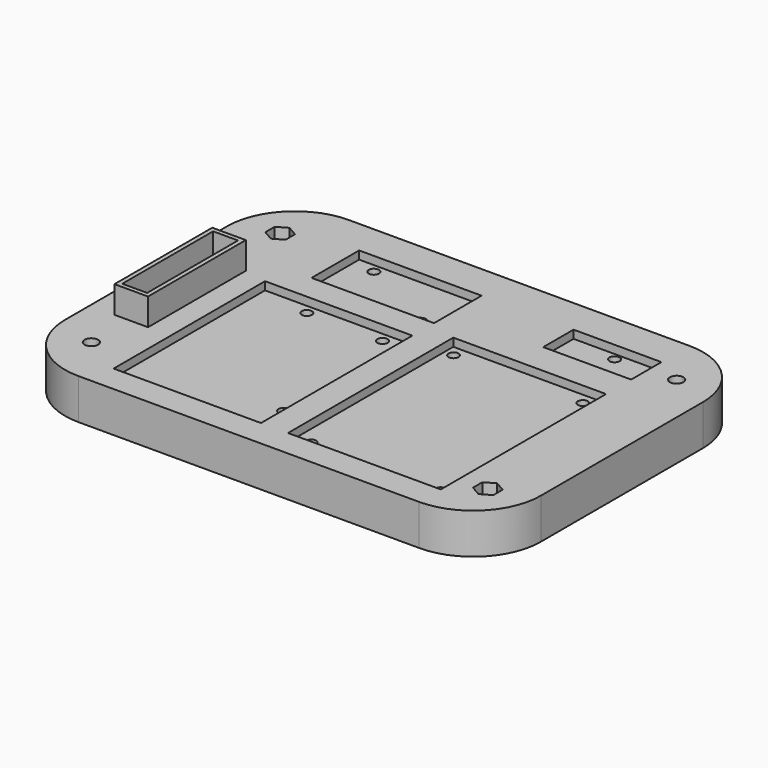
from build123d import *

# Parameters (mm, degrees)
SKETCH_W        = 250
SKETCH_H        = 250
PAD_DEPTH       = 15
SKETCH001_W     = 54.5
SKETCH001_H     = 70
SKETCH001_W_2   = 56.5
SKETCH001_H_2   = 76.4
SKETCH001_W_3   = 45.3
SKETCH001_H_3   = 22
SKETCH001_W_4   = 32.5
SKETCH001_H_4   = 14
POCKET_DEPTH    = 3
SKETCH002_R     = 1.85
POCKET001_DEPTH = 12.001
SKETCH003_R     = 1.9
POCKET002_DEPTH = 12.001
SKETCH004_R     = 1.9
POCKET003_DEPTH = 12.001
SKETCH005_R     = 1.9
POCKET004_DEPTH = 12.001
SKETCH006_W     = 9.2
SKETCH006_H     = 42
POCKET005_DEPTH = 13
SKETCH007_W     = 12.4
SKETCH007_H     = 45.2
SKETCH007_W_2   = 9.2
SKETCH007_H_2   = 42
PAD001_DEPTH    = 10
SKETCH008_W     = 300
SKETCH008_H     = 300
SKETCH008_W_2   = 176
SKETCH008_H_2   = 125
POCKET006_DEPTH = 15.001
FILLET_R        = 25
SKETCH009_R     = 2.5
POCKET007_DEPTH = 15.001
POCKET008_DEPTH = 9
POCKET009_DEPTH = 10
POCKET010_DEPTH = 9


with BuildPart() as part:
    # Sketch → Pad (new body)
    with BuildSketch(Plane.XY):
        Rectangle(SKETCH_W, SKETCH_H)
    extrude(amount=PAD_DEPTH)

    # Sketch001 (on Face6 of Pad) → Pocket (cut)
    with BuildSketch(Plane.XY.offset(15)):
        with Locations((-32.25, -80)):
            Rectangle(SKETCH001_W, SKETCH001_H)
        with Locations((33.25, -76.8)):
            Rectangle(SKETCH001_W_2, SKETCH001_H_2)
        with Locations((-27.65, -24)):
            Rectangle(SKETCH001_W_3, SKETCH001_H_3)
        with Locations((45.25, -20)):
            Rectangle(SKETCH001_W_4, SKETCH001_H_4)
    extrude(amount=-POCKET_DEPTH, mode=Mode.SUBTRACT)

    # Sketch002 (on Face24 of Pocket) → Pocket001 (cut, through all)
    with BuildSketch(Plane.XY.offset(12)):
        with Locations((8.375192, -42.688926)):
            Circle(SKETCH002_R)
        with Locations((56.175192, -42.688926)):
            Circle(SKETCH002_R)
        with Locations((58.124808, -110.911074)):
            Circle(SKETCH002_R)
        with Locations((10.324808, -110.911074)):
            Circle(SKETCH002_R)
    extrude(amount=-POCKET001_DEPTH, mode=Mode.SUBTRACT)

    # Sketch003 (on Face28 of Pocket001) → Pocket002 (cut, through all)
    with BuildSketch(Plane.XY.offset(12)):
        with Locations((-41.25, -48.5)):
            Circle(SKETCH003_R)
        with Locations((-13.25, -48.5)):
            Circle(SKETCH003_R)
        with Locations((-8.25, -100.5)):
            Circle(SKETCH003_R)
    extrude(amount=-POCKET002_DEPTH, mode=Mode.SUBTRACT)

    # Sketch004 (on Face32 of Pocket002) → Pocket003 (cut, through all)
    with BuildSketch(Plane.XY.offset(12)):
        with Locations((-42.248485, -16.25)):
            Circle(SKETCH004_R)
        with Locations((-12.55, -31.75)):
            Circle(SKETCH004_R)
    extrude(amount=-POCKET003_DEPTH, mode=Mode.SUBTRACT)

    # Sketch005 (on Face35 of Pocket003) → Pocket004 (cut, through all)
    with BuildSketch(Plane.XY.offset(12)):
        with Locations((46.25, -15.586892)):
            Circle(SKETCH005_R)
        with Locations((46.25, -24.413108)):
            Circle(SKETCH005_R)
    extrude(amount=-POCKET004_DEPTH, mode=Mode.SUBTRACT)

    # Sketch006 (on Face5 of Pocket004) → Pocket005 (cut)
    with BuildSketch(Plane.XY.offset(15)):
        with Locations((-74.1, -66)):
            Rectangle(SKETCH006_W, SKETCH006_H)
    extrude(amount=-POCKET005_DEPTH, mode=Mode.SUBTRACT)

    # Sketch007 (on Face5 of Pocket005) → Pad001 (join)
    with BuildSketch(Plane.XY.offset(15)):
        with Locations((-74.1, -66)):
            Rectangle(SKETCH007_W, SKETCH007_H)
        with Locations((-74.1, -66)):
            Rectangle(SKETCH007_W_2, SKETCH007_H_2, mode=Mode.SUBTRACT)
    extrude(amount=PAD001_DEPTH)

    # Sketch008 (on Face5 of Pad001) → Pocket006 (cut, through all)
    with BuildSketch(Plane.XY.offset(15)):
        Rectangle(SKETCH008_W, SKETCH008_H)
        with Locations((-1.5, -62.5)):
            Rectangle(SKETCH008_W_2, SKETCH008_H_2, mode=Mode.SUBTRACT)
    extrude(amount=-POCKET006_DEPTH, mode=Mode.SUBTRACT)

    # Fillet
    fillet_edges = [part.edges().sort_by_distance(p)[0] for p in [
        (-89.5, 0, 7.5),
        (86.5, 0, 7.5),
        (-89.5, -125, 7.5),
        (86.5, -125, 7.5),
    ]]
    fillet(fillet_edges, radius=FILLET_R)

    # Sketch009 (on Face21 of Fillet) → Pocket007 (cut, through all)
    with BuildSketch(Plane.XY.offset(15)):
        with Locations((-74.811515, -18.862194)):
            Circle(SKETCH009_R)
        with Locations((-74.811515, -106.137806)):
            Circle(SKETCH009_R)
        with Locations((71.811515, -106.137806)):
            Circle(SKETCH009_R)
        with Locations((71.811515, -18.862194)):
            Circle(SKETCH009_R)
    extrude(amount=-POCKET007_DEPTH, mode=Mode.SUBTRACT)

    # Sketch010 (on Face1 of Pocket007) → Pocket008 (cut)
    with BuildSketch(Plane(origin=(0, 0, 0), x_dir=(1, 0, 0), z_dir=(0, 0, -1))):
        with BuildLine():
            add(Edge.make_bspline(
                [(-59.4905, 53.1907), (-35.176244, 104.847992), (-6.131854, 120.848641), (59.499943, 122.378497), (69.74552, 107.664006), (66.740053, 37.010312), (58.064704, 6.539136), (38.934481, 2.738122), (20.374894, 34.842694), (4.562239, 31.363696), (-48.557429, -9.135552), (-63.495729, 22.716772), (-59.4905, 53.1907)],
                knots=[0, 0, 0, 0, 0.1, 0.2, 0.3, 0.4, 0.5, 0.6, 0.7, 0.8, 0.9, 1, 1, 1, 1], degree=3))
        make_face()
    extrude(amount=-POCKET008_DEPTH, mode=Mode.SUBTRACT)

    # Sketch011 (on Face15 of Pocket008) → Pocket009 (cut)
    with BuildSketch(Plane.XY.offset(15)):
        Polygon((-71.061515, -21.027257), (-71.061515, -16.69713), (-74.811515, -14.532067), (-78.561515, -16.69713), (-78.561515, -21.027257), (-74.811515, -23.192321), align=None)
        Polygon((75.561515, -108.30287), (75.561515, -103.972743), (71.811515, -101.807679), (68.061515, -103.972743), (68.061515, -108.30287), (71.811515, -110.467933), align=None)
    extrude(amount=-POCKET009_DEPTH, mode=Mode.SUBTRACT)

    # Sketch012 (on Face1 of Pocket009) → Pocket010 (cut)
    with BuildSketch(Plane(origin=(0, 0, 0), x_dir=(1, 0, 0), z_dir=(0, 0, -1))):
        Polygon((-71.061515, 103.972743), (-71.061515, 108.30287), (-74.811515, 110.467933), (-78.561515, 108.30287), (-78.561515, 103.972743), (-74.811515, 101.807679), align=None)
        Polygon((75.561515, 16.69713), (75.561515, 21.027257), (71.811515, 23.192321), (68.061515, 21.027257), (68.061515, 16.69713), (71.811515, 14.532067), align=None)
    extrude(amount=-POCKET010_DEPTH, mode=Mode.SUBTRACT)


solid = part.part
